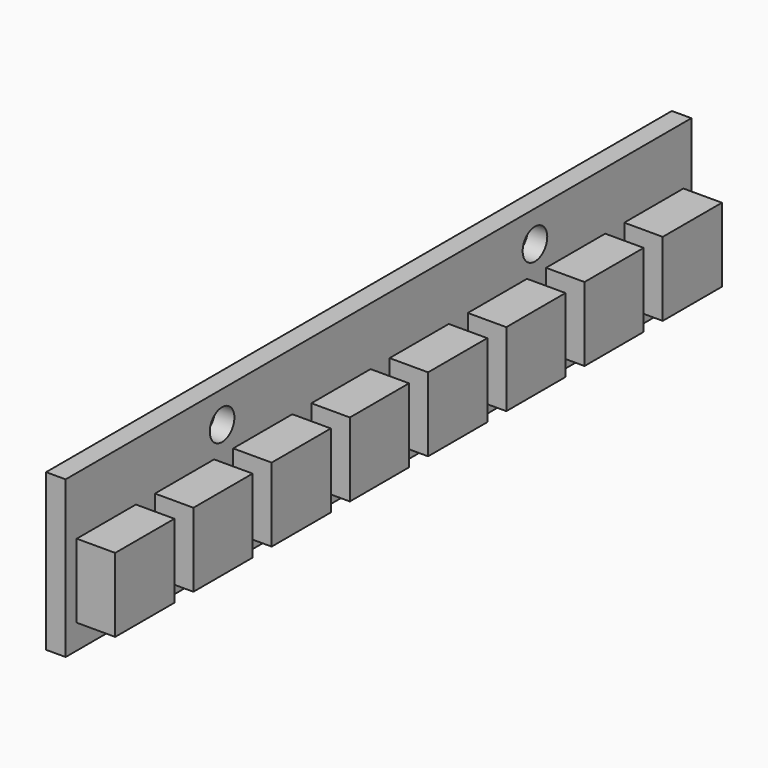
from build123d import *

# Parameters (mm, degrees)
F0_W     = 50.8
F0_H     = 10.16
F0_R     = 1
F1_DEPTH = 1.27
F2_W     = 4.804
F2_H     = 4.804
F3_DEPTH = 2.5


with BuildPart() as f1:
    # F0 (on Right) → F1 (new body)
    with BuildSketch(Plane.YZ):
        Rectangle(F0_W, F0_H)
        with Locations((-12.7, 3.048)):
            Circle(F0_R, mode=Mode.SUBTRACT)
        with Locations((12.7, 3.048)):
            Circle(F0_R, mode=Mode.SUBTRACT)
    extrude(amount=-F1_DEPTH)

    # F2 (on face) → F3 (join)
    with BuildSketch(Plane.YZ):
        with Locations((-22.098, -1.08)):
            Rectangle(F2_W, F2_H)
        with Locations((-15.748, -1.08)):
            Rectangle(F2_W, F2_H)
        with Locations((-9.398, -1.08)):
            Rectangle(F2_W, F2_H)
        with Locations((-3.048, -1.08)):
            Rectangle(F2_W, F2_H)
        with Locations((3.302, -1.08)):
            Rectangle(F2_W, F2_H)
        with Locations((9.652, -1.08)):
            Rectangle(F2_W, F2_H)
        with Locations((16.002, -1.08)):
            Rectangle(F2_W, F2_H)
        with Locations((22.352, -1.08)):
            Rectangle(F2_W, F2_H)
    extrude(amount=F3_DEPTH)


solid = f1.part
